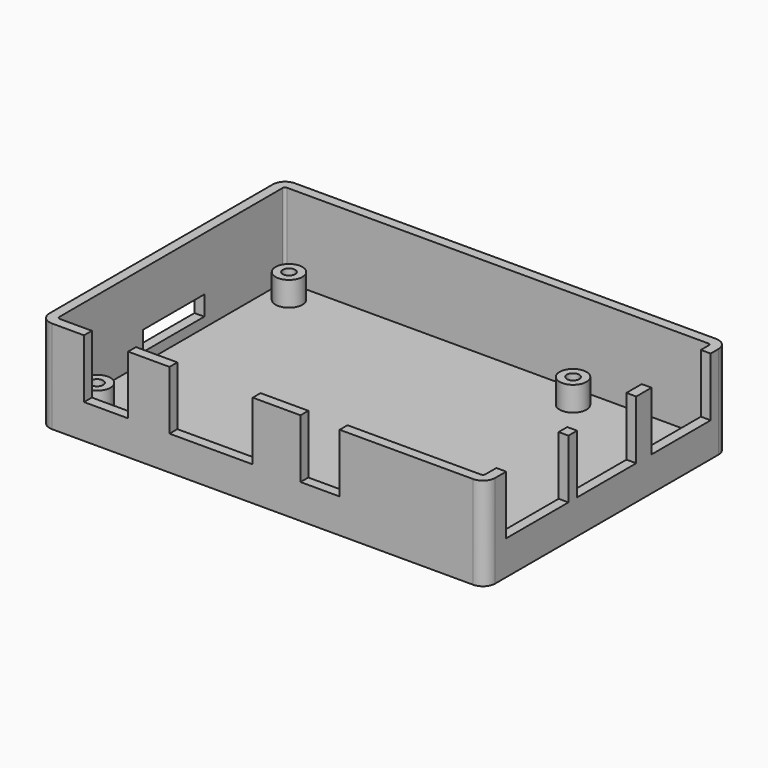
from build123d import *

# Parameters (mm, degrees)
F0_W      = 87
F0_H      = 58
F1_DEPTH  = 2
F2_DEPTH  = 19
F3_R      = 2.75
F3_R_2    = 1.25
F4_DEPTH  = 5
F5_W      = 9
F5_H      = 2
F5_W_2    = 17
F5_W_3    = 8
F5_W_4    = 2
F5_H_2    = 15.9
F5_H_3    = 15.1
F6_DEPTH  = 12
F7_W      = 15.6
F7_H      = 4
F8_DEPTH  = 5
F9_R      = 0.5
F10_DEPTH = 2


with BuildPart() as f1:
    # F0 (on Top) → F1 (new body)
    with BuildSketch(Plane.XY):
        with BuildLine():
            ThreePointArc((0, 2.5), (0.732233047, 0.732233047), (2.5, 0))
            Line((2.5, 0), (88.5, 0))
            ThreePointArc((88.5, 0), (90.267766953, 0.732233047), (91, 2.5))
            Line((91, 2.5), (91, 59.5))
            ThreePointArc((91, 59.5), (90.267766953, 61.267766953), (88.5, 62))
            Line((88.5, 62), (2.5, 62))
            ThreePointArc((2.5, 62), (0.732233047, 61.267766953), (0, 59.5))
            Line((0, 59.5), (0, 2.5))
        make_face()
        with Locations((45.5, 31)):
            Rectangle(F0_W, F0_H, mode=Mode.SUBTRACT)
        with Locations((45.5, 31)):
            Rectangle(F0_W, F0_H)
    extrude(amount=F1_DEPTH)

    # F0 (on Top) → F2 (join)
    with BuildSketch(Plane.XY):
        with BuildLine():
            ThreePointArc((0, 2.5), (0.732233047, 0.732233047), (2.5, 0))
            Line((2.5, 0), (88.5, 0))
            ThreePointArc((88.5, 0), (90.267766953, 0.732233047), (91, 2.5))
            Line((91, 2.5), (91, 59.5))
            ThreePointArc((91, 59.5), (90.267766953, 61.267766953), (88.5, 62))
            Line((88.5, 62), (2.5, 62))
            ThreePointArc((2.5, 62), (0.732233047, 61.267766953), (0, 59.5))
            Line((0, 59.5), (0, 2.5))
        make_face()
        with Locations((45.5, 31)):
            Rectangle(F0_W, F0_H, mode=Mode.SUBTRACT)
    extrude(amount=F2_DEPTH)

    # F3 (on face) → F4 (join)
    with BuildSketch(Plane.XY.offset(2)):
        with Locations((6.5, 55.5)):
            Circle(F3_R)
        with Locations((6.5, 55.5)):
            Circle(F3_R_2, mode=Mode.SUBTRACT)
        with Locations((64.5, 6.5)):
            Circle(F3_R)
        with Locations((64.5, 6.5)):
            Circle(F3_R_2, mode=Mode.SUBTRACT)
        with Locations((6.5, 6.5)):
            Circle(F3_R)
        with Locations((6.5, 6.5)):
            Circle(F3_R_2, mode=Mode.SUBTRACT)
        with Locations((64.5, 55.5)):
            Circle(F3_R)
        with Locations((64.5, 55.5)):
            Circle(F3_R_2, mode=Mode.SUBTRACT)
    extrude(amount=F4_DEPTH)

    # F5 (on face) → F6 (cut)
    with BuildSketch(Plane.XY.offset(19)):
        with Locations((13.55, 1)):
            Rectangle(F5_W, F5_H)
        with Locations((35, 1)):
            Rectangle(F5_W_2, F5_H)
        with Locations((57.25, 1)):
            Rectangle(F5_W_3, F5_H)
        with Locations((90, 13.25)):
            Rectangle(F5_W_4, F5_H_2)
        with Locations((90, 30.95)):
            Rectangle(F5_W_4, F5_H_3)
        with Locations((90, 49.95)):
            Rectangle(F5_W_4, F5_H_3)
    extrude(amount=-F6_DEPTH, mode=Mode.SUBTRACT)

    # F7 (on face) → F8 (cut)
    with BuildSketch(Plane(origin=(0, 0, 0), x_dir=(0, -1, 0), z_dir=(-1, 0, 0))):
        with Locations((-31.7, 6)):
            Rectangle(F7_W, F7_H)
    extrude(amount=-F8_DEPTH, mode=Mode.SUBTRACT)

    # F9
    f9_edges = [f1.edges().sort_by_distance(p)[0] for p in [
        (2, 60, 10.5),
        (89, 60, 10.5),
        (2, 2, 10.5),
        (89, 2, 10.5),
    ]]
    fillet(f9_edges, radius=F9_R)

    # F10 (cut, through all): faces of the model
    f10_faces = [f1.faces().sort_by_distance(p)[0] for p in [
        (6.5, 55.5, 2),
        (64.5, 55.5, 2),
        (64.5, 6.5, 2),
        (6.5, 6.5, 2),
    ]]
    extrude(f10_faces, amount=-F10_DEPTH, mode=Mode.SUBTRACT)


solid = f1.part
